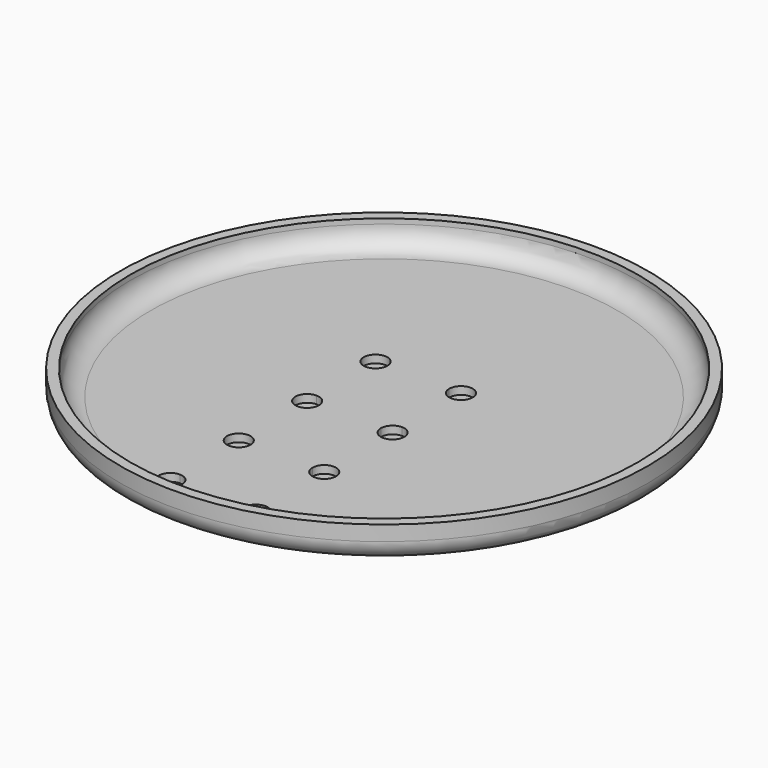
from build123d import *

# Parameters (mm, degrees)
F0_R     = 66.675
F1_DEPTH = 2.54
F2_R     = 66.675
F2_R_2   = 64.135
F3_DEPTH = 6.35
F4_R     = 5.08
F6_DEPTH = 1.9538461538


with BuildPart() as f1:
    # F0 (on Top) → F1 (new body)
    with BuildSketch(Plane.XY):
        Circle(F0_R)
    extrude(amount=F1_DEPTH)

    # F2 (on face) → F3 (join)
    with BuildSketch(Plane.XY.offset(2.54)):
        Circle(F2_R)
        Circle(F2_R_2, mode=Mode.SUBTRACT)
    extrude(amount=F3_DEPTH)

    # F4
    f4_edges = [f1.edges().sort_by_distance(p)[0] for p in [
        (-64.135, 0, 2.54),
        (-66.675, 0, 0),
    ]]
    fillet(f4_edges, radius=F4_R)

    # F5 (on face) → F6 (cut)
    with BuildSketch(Plane.XY.offset(2.54)):
        with BuildLine():
            Line((10.795, 10.795), (7.8184375, 10.795))
            ThreePointArc((7.8184375, 10.795), (8.6902524716, 8.6902524716), (10.795, 7.8184375))
            Line((10.795, 7.8184375), (10.795, 10.795))
        make_face()
        with BuildLine():
            ThreePointArc((13.7715625, 10.795), (10.795, 13.7715625), (7.8184375, 10.795))
            Line((7.8184375, 10.795), (10.795, 10.795))
            Line((10.795, 10.795), (10.795, 7.8184375))
            ThreePointArc((10.795, 7.8184375), (12.8997475284, 8.6902524716), (13.7715625, 10.795))
        make_face()
        with BuildLine():
            Line((-10.795, 10.795), (-7.8184375, 10.795))
            ThreePointArc((-7.8184375, 10.795), (-12.8997475284, 12.8997475284), (-10.795, 7.8184375))
            Line((-10.795, 7.8184375), (-10.795, 10.795))
        make_face()
        with BuildLine():
            ThreePointArc((-10.795, 7.8184375), (-8.6902524716, 8.6902524716), (-7.8184375, 10.795))
            Line((-7.8184375, 10.795), (-10.795, 10.795))
            Line((-10.795, 10.795), (-10.795, 7.8184375))
        make_face()
        with BuildLine():
            Line((10.795, -10.795), (10.795, -7.8184375))
            ThreePointArc((10.795, -7.8184375), (8.6902524716, -8.6902524716), (7.8184375, -10.795))
            Line((7.8184375, -10.795), (10.795, -10.795))
        make_face()
        with BuildLine():
            ThreePointArc((13.7715625, -10.795), (12.8997475284, -8.6902524716), (10.795, -7.8184375))
            Line((10.795, -7.8184375), (10.795, -10.795))
            Line((10.795, -10.795), (7.8184375, -10.795))
            ThreePointArc((7.8184375, -10.795), (10.795, -13.7715625), (13.7715625, -10.795))
        make_face()
        with BuildLine():
            ThreePointArc((-7.8184375, -10.795), (-8.6902524716, -8.6902524716), (-10.795, -7.8184375))
            Line((-10.795, -7.8184375), (-10.795, -10.795))
            Line((-10.795, -10.795), (-7.8184375, -10.795))
        make_face()
        with BuildLine():
            Line((-10.795, -10.795), (-10.795, -7.8184375))
            ThreePointArc((-10.795, -7.8184375), (-12.8997475284, -12.8997475284), (-7.8184375, -10.795))
            Line((-7.8184375, -10.795), (-10.795, -10.795))
        make_face()
        with BuildLine():
            Line((10.795, -32.385), (7.8184375, -32.385))
            ThreePointArc((7.8184375, -32.385), (8.6902524716, -34.4897475284), (10.795, -35.3615625))
            Line((10.795, -35.3615625), (10.795, -32.385))
        make_face()
        with BuildLine():
            ThreePointArc((13.7715625, -32.385), (10.795, -29.4084375), (7.8184375, -32.385))
            Line((7.8184375, -32.385), (10.795, -32.385))
            Line((10.795, -32.385), (10.795, -35.3615625))
            ThreePointArc((10.795, -35.3615625), (12.8997475284, -34.4897475284), (13.7715625, -32.385))
        make_face()
        with BuildLine():
            Line((-10.795, -32.385), (-7.8184375, -32.385))
            ThreePointArc((-7.8184375, -32.385), (-12.8997475284, -30.2802524716), (-10.795, -35.3615625))
            Line((-10.795, -35.3615625), (-10.795, -32.385))
        make_face()
        with BuildLine():
            ThreePointArc((-10.795, -35.3615625), (-8.6902524716, -34.4897475284), (-7.8184375, -32.385))
            Line((-7.8184375, -32.385), (-10.795, -32.385))
            Line((-10.795, -32.385), (-10.795, -35.3615625))
        make_face()
        with BuildLine():
            ThreePointArc((13.7715625, -53.975), (12.8997475284, -51.8702524716), (10.795, -50.9984375))
            Line((10.795, -50.9984375), (10.795, -53.975))
            Line((10.795, -53.975), (7.8184375, -53.975))
            ThreePointArc((7.8184375, -53.975), (10.795, -56.9515625), (13.7715625, -53.975))
        make_face()
        with BuildLine():
            Line((-10.795, -53.975), (-10.795, -50.9984375))
            ThreePointArc((-10.795, -50.9984375), (-12.8997475284, -56.0797475284), (-7.8184375, -53.975))
            Line((-7.8184375, -53.975), (-10.795, -53.975))
        make_face()
        with BuildLine():
            Line((10.795, -53.975), (10.795, -50.9984375))
            ThreePointArc((10.795, -50.9984375), (8.6902524716, -51.8702524716), (7.8184375, -53.975))
            Line((7.8184375, -53.975), (10.795, -53.975))
        make_face()
        with BuildLine():
            ThreePointArc((-7.8184375, -53.975), (-8.6902524716, -51.8702524716), (-10.795, -50.9984375))
            Line((-10.795, -50.9984375), (-10.795, -53.975))
            Line((-10.795, -53.975), (-7.8184375, -53.975))
        make_face()
        with BuildLine():
            ThreePointArc((13.7715625, -53.975), (12.8997475284, -51.8702524716), (10.795, -50.9984375))
            Line((10.795, -50.9984375), (10.795, -53.975))
            Line((10.795, -53.975), (7.8184375, -53.975))
            ThreePointArc((7.8184375, -53.975), (10.795, -56.9515625), (13.7715625, -53.975))
        make_face()
        with BuildLine():
            Line((10.795, -53.975), (10.795, -50.9984375))
            ThreePointArc((10.795, -50.9984375), (8.6902524716, -51.8702524716), (7.8184375, -53.975))
            Line((7.8184375, -53.975), (10.795, -53.975))
        make_face()
        with BuildLine():
            ThreePointArc((-7.8184375, -53.975), (-8.6902524716, -51.8702524716), (-10.795, -50.9984375))
            Line((-10.795, -50.9984375), (-10.795, -53.975))
            Line((-10.795, -53.975), (-7.8184375, -53.975))
        make_face()
        with BuildLine():
            Line((-10.795, -53.975), (-10.795, -50.9984375))
            ThreePointArc((-10.795, -50.9984375), (-12.8997475284, -56.0797475284), (-7.8184375, -53.975))
            Line((-7.8184375, -53.975), (-10.795, -53.975))
        make_face()
    extrude(amount=-F6_DEPTH, mode=Mode.SUBTRACT)


solid = f1.part
